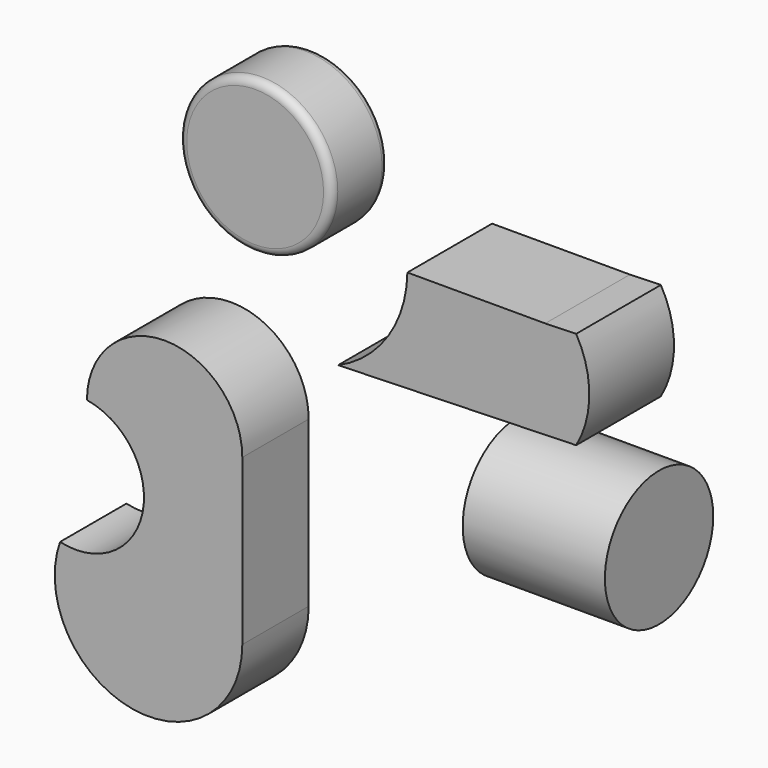
from build123d import *

# Parameters (mm, degrees)
F1_DEPTH = 68.072
F2_R     = 49.072963
F3_DEPTH = 45.72
F4_R     = 5.08
F5_R     = 5.08
F6_R     = 43.534048
F7_DEPTH = 91.44
F9_DEPTH = 53.34


with BuildPart() as f1:
    # F0 (on Front) → F1 (new body)
    with BuildSketch(Plane.XZ):
        with BuildLine():
            ThreePointArc((-32.001413, 50.193176), (-44.400376, 10.172182), (-76.525114, -16.724201))
            Line((-76.525114, -16.724201), (76.525114, -12.295715))
            ThreePointArc((76.525114, -12.295715), (84.98728, 19.236295), (76.525114, 50.768304))
            Line((76.525114, 50.768304), (56.648456, 50.193176))
            Line((56.648456, 50.193176), (-32.001413, 50.193176))
        make_face()
    extrude(amount=F1_DEPTH)


with BuildPart() as f3:
    # F2 (on Front) → F3 (new body)
    with BuildSketch(Plane.XZ):
        with Locations((-147.773027, 63.153692)):
            Circle(F2_R)
    extrude(amount=F3_DEPTH)

    # F4
    f4_edges = [f3.edges().sort_by_distance(p)[0] for p in [
        (-196.84599, -45.72, 63.153692),
    ]]
    fillet(f4_edges, radius=F4_R)

    # F5
    f5_edges = [f3.edges().sort_by_distance(p)[0] for p in [
        (-196.84599, 0, 63.153692),
    ]]
    fillet(f5_edges, radius=F5_R)


with BuildPart() as f7:
    # F6 (on Right) → F7 (new body)
    with BuildSketch(Plane.YZ):
        with Locations((-20.093309, -84.812745)):
            Circle(F6_R)
    extrude(amount=F7_DEPTH)


with BuildPart() as f9:
    # F8 (on Front) → F9 (new body)
    with BuildSketch(Plane.XZ):
        with BuildLine():
            Line((-149.932593, -204.758555), (-149.932593, -98.820679))
            ThreePointArc((-149.932593, -98.820679), (-199.885726, -48.867546), (-249.838859, -98.820679))
            ThreePointArc((-249.838859, -98.820679), (-214.023228, -150.732521), (-267.130345, -184.750646))
            ThreePointArc((-267.130345, -184.750646), (-220.388026, -264.205231), (-149.932593, -204.758555))
        make_face()
    extrude(amount=F9_DEPTH)


solid = Compound([f1.part, f3.part, f7.part, f9.part])
